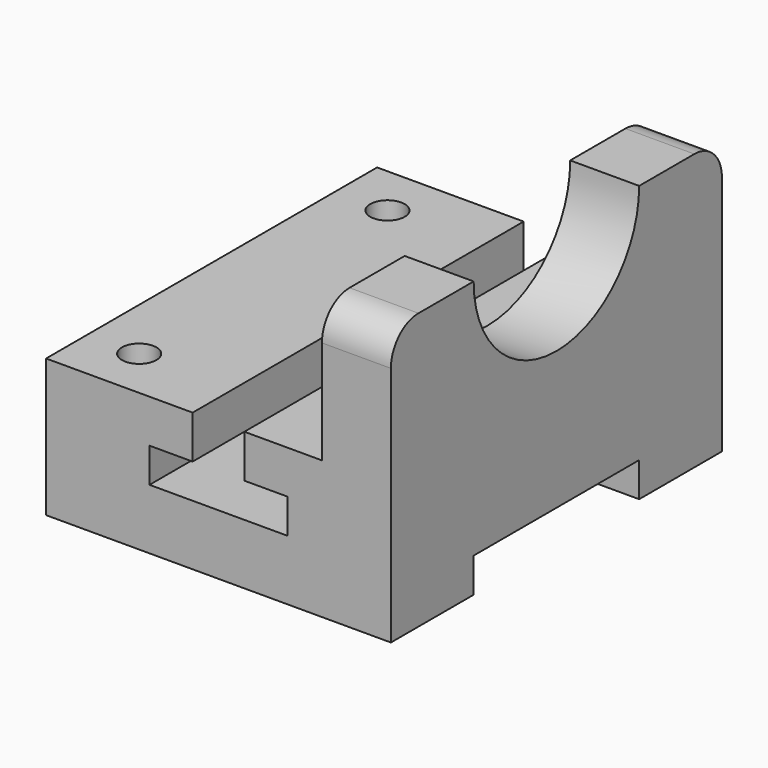
from build123d import *

# Parameters (mm, degrees)
F1_DEPTH = 6
F3_DEPTH = 25
F4_W     = 3
F4_H     = 0.5
F5_DEPTH = 25
F6_R     = 0.25
F7_DEPTH = 25
F9_DEPTH = 25
F10_R    = 0.5


with BuildPart() as f1:
    # F0 (on Front) → F1 (new body)
    with BuildSketch(Plane.XZ):
        Polygon((0, 2), (0, 0), (5, 0), (5, 4), (4, 4), (4, 2), align=None)
    extrude(amount=-F1_DEPTH)

    # F2 (on face) → F3 (cut)
    with BuildSketch(Plane.XZ):
        Polygon((2.875, 2), (2.125, 2), (2.125, 1.375), (1.5, 1.375), (1.5, 0.875), (3.5, 0.875), (3.5, 1.375), (2.875, 1.375), align=None)
    extrude(amount=-F3_DEPTH, mode=Mode.SUBTRACT)

    # F4 (on face) → F5 (cut)
    with BuildSketch(Plane(origin=(0, 0, 0), x_dir=(0, -1, 0), z_dir=(-1, 0, 0))):
        with Locations((-3, 0.25)):
            Rectangle(F4_W, F4_H)
    extrude(amount=-F5_DEPTH, mode=Mode.SUBTRACT)

    # F6 (on face) → F7 (cut)
    with BuildSketch(Plane.XY.offset(2)):
        with Locations((0.75, 0.75)):
            Circle(F6_R)
        with Locations((0.75, 5.25)):
            Circle(F6_R)
    extrude(amount=-F7_DEPTH, mode=Mode.SUBTRACT)

    # F8 (on face) → F9 (cut)
    with BuildSketch(Plane(origin=(4, 0, 0), x_dir=(0, -1, 0), z_dir=(-1, 0, 0))):
        with BuildLine():
            Line((-1.5, 4), (-4.5, 4))
            ThreePointArc((-4.5, 4), (-3, 2.5), (-1.5, 4))
        make_face()
    extrude(amount=-F9_DEPTH, mode=Mode.SUBTRACT)

    # F10
    f10_edges = [f1.edges().sort_by_distance(p)[0] for p in [
        (4.5, 0, 4),
        (4.5, 6, 4),
    ]]
    fillet(f10_edges, radius=F10_R)


solid = f1.part
